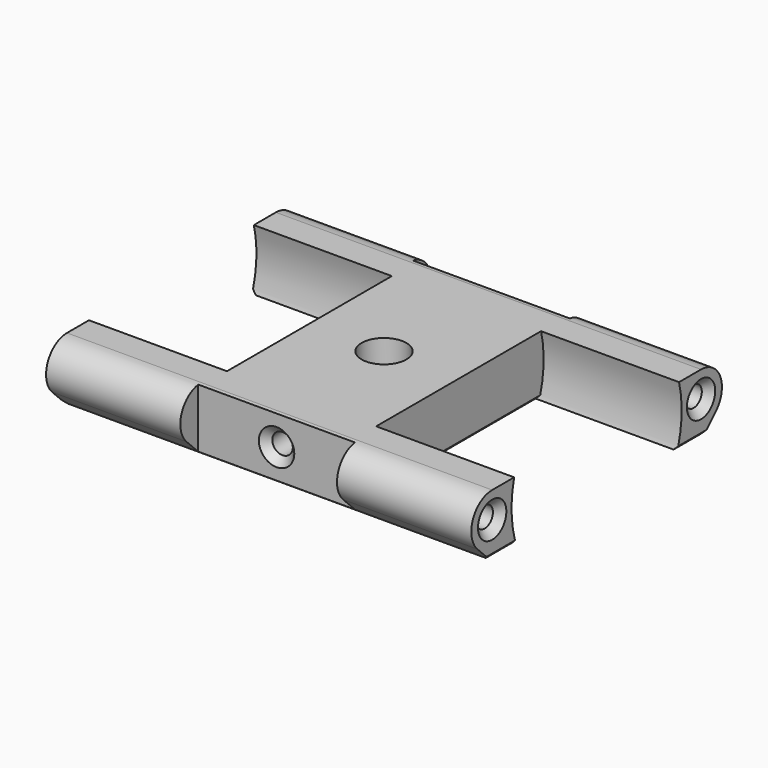
from build123d import *

# Parameters (mm, degrees)
PAD001_DEPTH        = 28.5
SKETCH002_R         = 14.25
POCKET_DEPTH        = 18.5
SKETCH003_R         = 1.375
POCKET001_DEPTH     = 10
CHAMFER_SIZE        = 1
SKETCH004_W         = 10.5
SKETCH004_H         = 4
POCKET002_DEPTH     = 10
SKETCH008_R         = 3
POCKET004_DEPTH     = 5
SKETCH009_R         = 1.75
POCKET005_DEPTH     = 5
CHAMFER004_SIZE     = 0.5
SKETCH012_R         = 1.375
POCKET008_DEPTH     = 8
SKETCH013_R         = 1.375
POCKET009_DEPTH     = 8
CHAMFER005_SIZE     = 1
CLONE002_ROLL_ANGLE = -90


with BuildPart() as motorbracketgroovemirrored001:
    # Sketch001 → Pad001 (new body)
    with BuildSketch(Plane.YZ):
        with BuildLine():
            ThreePointArc((2.474858, 19.974889), (-1.339402, 20.733574), (-3.5, 17.5))
            Line((-3.5, 17.5), (-3.5, -17.5))
            ThreePointArc((-3.5, -17.5), (-1.339402, -20.733574), (2.474858, -19.974889))
            Line((4.5, -17.949747), (2.474858, -19.974889))
            Line((4.5, 17.949747), (4.5, -17.949747))
            Line((4.5, 17.949747), (2.474858, 19.974889))
        make_face()
    extrude(amount=PAD001_DEPTH)

    # Sketch002 → Pocket (cut)
    with BuildSketch(Plane.YZ.offset(28.5)):
        Circle(SKETCH002_R)
    extrude(amount=-POCKET_DEPTH, mode=Mode.SUBTRACT)

    # Sketch003 → Pocket001 (cut)
    with BuildSketch(Plane.YZ.offset(28.5)):
        with Locations((0, 17.5)):
            Circle(SKETCH003_R)
    pocket001 = extrude(amount=-POCKET001_DEPTH, mode=Mode.SUBTRACT)

    # Mirrored: Pocket001 across Sketch003 H_Axis
    add(pocket001.mirror(Plane(origin=(28.5, 0, 0), x_dir=(1, 0, 0), z_dir=(0, 0, 1))), mode=Mode.SUBTRACT)

    # Chamfer
    chamfer_edges = [motorbracketgroovemirrored001.edges().sort_by_distance(p)[0] for p in [
        (28.5, -1.375, 17.5),
        (28.5, -1.375, -17.5),
    ]]
    chamfer(chamfer_edges, length=CHAMFER_SIZE)

    # Sketch004 → Pocket002 (cut)
    with BuildSketch(Plane(origin=(0, 4.5, 0), x_dir=(-1, 0, 0), z_dir=(0, 1, 0))):
        with Locations((-5.25, 20)):
            Rectangle(SKETCH004_W, SKETCH004_H)
    pocket002 = extrude(amount=-POCKET002_DEPTH, mode=Mode.SUBTRACT)

    # Mirrored001: Pocket002 across Sketch004 H_Axis
    add(pocket002.mirror(Plane(origin=(0, 4.5, 0), x_dir=(0, 1, 0), z_dir=(0, 0, 1))), mode=Mode.SUBTRACT)


with BuildPart() as clone002:
    # Part__Mirroring: instance of MotorBracketGrooveMirrored001
    add(motorbracketgroovemirrored001.part.mirror(Plane(origin=(0, 0, 0), x_dir=(0, -1, 0), z_dir=(1, 0, 0))))

    # Fusion001: union MotorBracketGrooveMirrored001
    add(motorbracketgroovemirrored001.part)

    # Sketch008 → Pocket004 (cut)
    with BuildSketch(Plane.XZ.offset(3.5)):
        Circle(SKETCH008_R)
    extrude(amount=-POCKET004_DEPTH, mode=Mode.SUBTRACT)

    # Sketch009 → Pocket005 (cut)
    with BuildSketch(Plane.XZ.offset(-1.5)):
        Circle(SKETCH009_R)
    extrude(amount=-POCKET005_DEPTH, mode=Mode.SUBTRACT)

    # Chamfer004
    chamfer004_edges = [clone002.edges().sort_by_distance(p)[0] for p in [
        (10, 4.5, 0),
        (0, 4.5, 1.75),
        (-10, 4.5, 0),
        (-28.5, 4.5, -15.735282),
        (-28.5, 4.5, 15.735282),
        (28.5, 4.5, -15.735282),
        (28.5, 4.5, 15.735282),
    ]]
    chamfer(chamfer004_edges, length=CHAMFER004_SIZE)

    # Sketch012 → Pocket008 (cut)
    with BuildSketch(Plane.XY.offset(18)):
        with Locations((0, 0.5)):
            Circle(SKETCH012_R)
    extrude(amount=-POCKET008_DEPTH, mode=Mode.SUBTRACT)

    # Sketch013 → Pocket009 (cut)
    with BuildSketch(Plane(origin=(0, 0, -18), x_dir=(1, 0, 0), z_dir=(0, 0, -1))):
        with Locations((0, -0.5)):
            Circle(SKETCH013_R)
    extrude(amount=-POCKET009_DEPTH, mode=Mode.SUBTRACT)

    # Chamfer005
    chamfer005_edges = [clone002.edges().sort_by_distance(p)[0] for p in [
        (-1.375, 0.5, -18),
        (-1.375, 0.5, 18),
    ]]
    chamfer(chamfer005_edges, length=CHAMFER005_SIZE)


with BuildPart() as clone002_1:
    # Clone002 roll: moved
    add(clone002.part.rotate(Axis((0, 0, 0), (1, 0, 0)), CLONE002_ROLL_ANGLE))


with BuildPart() as clone002_2:
    # Clone002 placement: moved
    add(clone002_1.part.moved(Location((-112, 0, -33.5))))


solid = clone002_2.part
